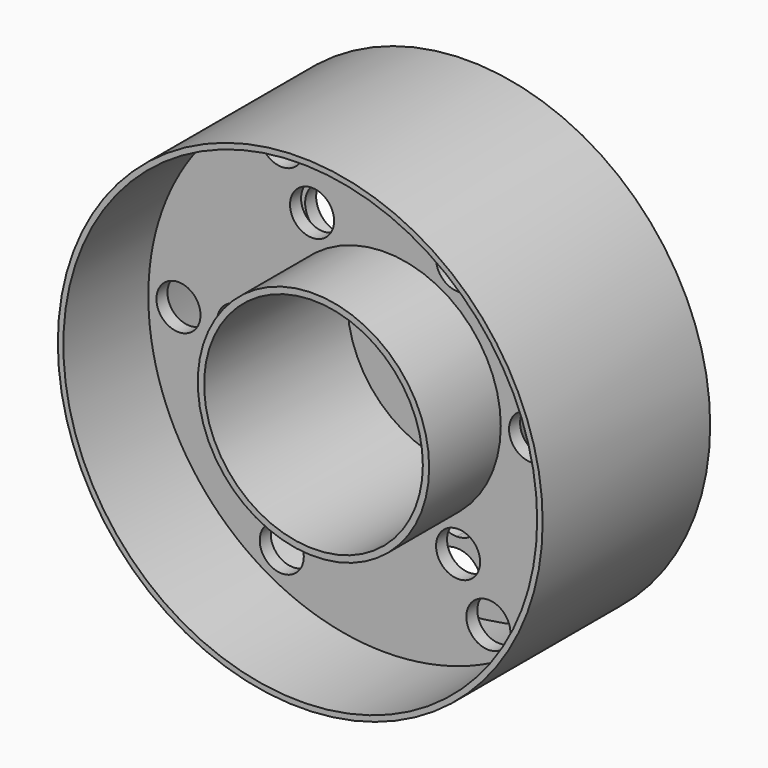
from build123d import *

# Parameters (mm, degrees)
F0_R     = 44
F0_R_2   = 43
F1_DEPTH = 38
F0_R_3   = 21
F2_DEPTH = 2.5
F0_R_4   = 19.85
F3_DEPTH = 35
F4_DEPTH = 2.5
F5_R     = 4.5
F6_DEPTH = 12.7
F7_R     = 4
F8_DEPTH = 2.5


with BuildPart() as f1:
    # F0 (on Front) → F1 (new body)
    with BuildSketch(Plane.XZ):
        Circle(F0_R)
        Circle(F0_R_2, mode=Mode.SUBTRACT)
    extrude(amount=F1_DEPTH)

    # F0 (on Front) → F2 (join)
    with BuildSketch(Plane.XZ):
        Circle(F0_R_2)
        Circle(F0_R_3, mode=Mode.SUBTRACT)
    extrude(amount=F2_DEPTH)

    # F0 (on Front) → F3 (join)
    with BuildSketch(Plane.XZ):
        Circle(F0_R_3)
        Circle(F0_R_4, mode=Mode.SUBTRACT)
    extrude(amount=F3_DEPTH)

    # F0 (on Front) → F4 (join)
    with BuildSketch(Plane.XZ):
        Circle(F0_R_4)
    extrude(amount=F4_DEPTH)

    # F5 (on face) → F6 (cut)
    with BuildSketch(Plane.XZ.offset(2.5)):
        with Locations((32.4103336987, 18.7121148854)):
            Circle(F5_R)
        with Locations((23.0152921435, 13.2878851146)):
            Circle(F5_R)
        with Locations((23.0152921435, -13.2878851146)):
            Circle(F5_R)
        with Locations((32.4103336987, -18.7121148854)):
            Circle(F5_R)
        with BuildLine():
            Line((0, -32.9242297709), (0, -41.9242297709))
            ThreePointArc((0, -41.9242297709), (3.1819805153, -40.6062102862), (4.5, -37.4242297709))
            ThreePointArc((4.5, -37.4242297709), (3.1819805153, -34.2422492556), (0, -32.9242297709))
        make_face()
        with BuildLine():
            ThreePointArc((0, -32.9242297709), (-4.5, -37.4242297709), (0, -41.9242297709))
            Line((0, -41.9242297709), (0, -32.9242297709))
        make_face()
        with BuildLine():
            Line((0, -31.0757702291), (0, -22.0757702291))
            ThreePointArc((0, -22.0757702291), (-4.5, -26.5757702291), (0, -31.0757702291))
        make_face()
        with BuildLine():
            ThreePointArc((4.5, -26.5757702291), (3.1819805153, -23.3937897138), (0, -22.0757702291))
            Line((0, -22.0757702291), (0, -31.0757702291))
            ThreePointArc((0, -31.0757702291), (3.1819805153, -29.7577507444), (4.5, -26.5757702291))
        make_face()
        with Locations((-23.0152921435, -13.2878851146)):
            Circle(F5_R)
        with Locations((-32.4103336987, -18.7121148854)):
            Circle(F5_R)
        with Locations((-32.4103336987, 18.7121148854)):
            Circle(F5_R)
        with Locations((-23.0152921435, 13.2878851146)):
            Circle(F5_R)
        with BuildLine():
            Line((0, 31.0757702291), (0, 22.0757702291))
            ThreePointArc((0, 22.0757702291), (3.1819805153, 23.3937897138), (4.5, 26.5757702291))
            ThreePointArc((4.5, 26.5757702291), (3.1819805153, 29.7577507444), (0, 31.0757702291))
        make_face()
        with BuildLine():
            ThreePointArc((0, 31.0757702291), (-4.5, 26.5757702291), (0, 22.0757702291))
            Line((0, 22.0757702291), (0, 31.0757702291))
        make_face()
        with BuildLine():
            ThreePointArc((0, 41.9242297709), (-4.5, 37.4242297709), (0, 32.9242297709))
            Line((0, 32.9242297709), (0, 41.9242297709))
        make_face()
        with BuildLine():
            Line((0, 41.9242297709), (0, 32.9242297709))
            ThreePointArc((0, 32.9242297709), (3.1819805153, 34.2422492556), (4.5, 37.4242297709))
            ThreePointArc((4.5, 37.4242297709), (3.1819805153, 40.6062102862), (0, 41.9242297709))
        make_face()
    extrude(amount=-F6_DEPTH, mode=Mode.SUBTRACT)


with BuildPart() as f8:
    # F7 (on Front) → F8 (new body)
    with BuildSketch(Plane.XZ):
        with BuildLine():
            ThreePointArc((43, 0), (0, 43), (-43, 0))
            ThreePointArc((-43, 0), (0, -43), (43, 0))
        make_face()
        with Locations((-18.75, -32.4759526419)):
            Circle(F7_R, mode=Mode.SUBTRACT)
        with Locations((-13.25, -22.9496732003)):
            Circle(F7_R, mode=Mode.SUBTRACT)
        with Locations((18.75, -32.4759526419)):
            Circle(F7_R, mode=Mode.SUBTRACT)
        with Locations((13.25, -22.9496732003)):
            Circle(F7_R, mode=Mode.SUBTRACT)
        with BuildLine():
            ThreePointArc((-41.5, 0), (-37.5, 4), (-33.5, 0))
            ThreePointArc((-33.5, 0), (-37.5, -4), (-41.5, 0))
        make_face(mode=Mode.SUBTRACT)
        with BuildLine():
            ThreePointArc((-30.5, 0), (-26.5, 4), (-22.5, 0))
            ThreePointArc((-22.5, 0), (-26.5, -4), (-30.5, 0))
        make_face(mode=Mode.SUBTRACT)
        with Locations((-13.25, 22.9496732003)):
            Circle(F7_R, mode=Mode.SUBTRACT)
        with Locations((-18.75, 32.4759526419)):
            Circle(F7_R, mode=Mode.SUBTRACT)
        with BuildLine():
            ThreePointArc((-21, 0), (0, 21), (21, 0))
            ThreePointArc((21, 0), (0, -21), (-21, 0))
        make_face(mode=Mode.SUBTRACT)
        with Locations((26.5, 0)):
            Circle(F7_R, mode=Mode.SUBTRACT)
        with Locations((37.5, 0)):
            Circle(F7_R, mode=Mode.SUBTRACT)
        with Locations((13.25, 22.9496732003)):
            Circle(F7_R, mode=Mode.SUBTRACT)
        with Locations((18.75, 32.4759526419)):
            Circle(F7_R, mode=Mode.SUBTRACT)
    extrude(amount=F8_DEPTH)


with BuildPart() as f8_1:
    # F9: moved
    add(f8.part.moved(Location((0, -16.256, 0))))


solid = Compound([f1.part, f8_1.part])
